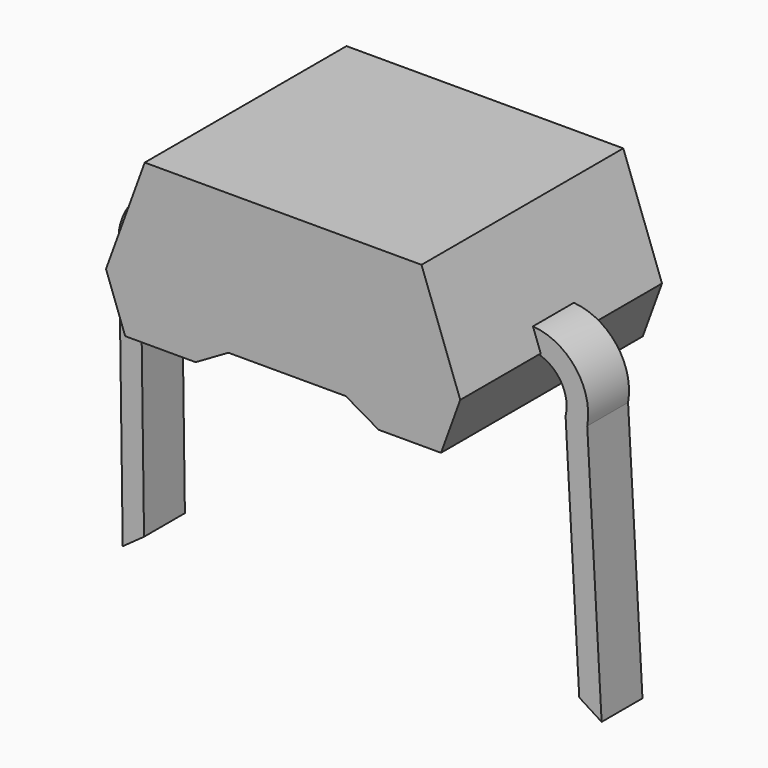
from build123d import *

# Parameters (mm, degrees)
F1_DEPTH  = 2.05
F3_DEPTH  = 0.415
F4_W      = 3.8403489144
F4_H      = 3.724045353
F5_DEPTH  = 1
F6_W      = 3.4870769596
F6_H      = 0.35
F7_DEPTH  = 1.57382
F8_W      = 3.4941060003
F8_H      = 0.35
F9_DEPTH  = 1.54205
F10_W     = 3.5302189644
F10_H     = 3.4740566043
F11_DEPTH = 0.37396
F12_W     = 3.8403489144
F12_H     = 0.2955522308
F13_DEPTH = 3.724045353


with BuildPart() as f1:
    # F0 (on Front) → F1 (new body, symmetric)
    with BuildSketch(Plane.XZ):
        Polygon((2.1852144086, 1.7290017953), (-2.3147855914, 1.7290017953), (-2.9440907799, 0), (-2.631453128, -0.8589648891), (-1.4877708299, -0.8589648891), (-0.9536180938, -0.5505716632), (0.9536180938, -0.5505716632), (1.4877708299, -0.8589648891), (2.5018819451, -0.8589648891), (2.8145195971, 0), align=None)
    extrude(amount=F1_DEPTH, both=True)

    # F4 (on face) → F5 (cut)
    with BuildSketch(Plane.XY.offset(1.7290017953)):
        with Locations((-0.0647855914, 0)):
            Rectangle(F4_W, F4_H)
    extrude(amount=-F5_DEPTH, mode=Mode.SUBTRACT)

    # F12 (on face) → F13 (join, through all)
    with BuildSketch(Plane.XZ.offset(-1.8620226765)):
        with Locations((-0.0647855914, 1.5812256799)):
            Rectangle(F12_W, F12_H)
    extrude(amount=F13_DEPTH)


with BuildPart() as f3:
    # F2 (on Front) → F3 (new body, symmetric)
    with BuildSketch(Plane.XZ):
        with BuildLine():
            ThreePointArc((2.5944073658, 0), (3.0970502608, -0.2283073486), (3.2190639405, -0.7667187037))
            Line((3.2190639405, -0.7667187037), (3.4415388399, -4.72))
            Line((3.4415388399, -4.72), (3.8050862517, -4.9508910426))
            Line((3.8050862517, -4.9508910426), (3.5710944592, -0.7929596136))
            ThreePointArc((3.5710944592, -0.7929596136), (3.3520943466, 0.0122444512), (2.5890505572, 0.35))
            Line((2.5890505572, 0.35), (2.5944073658, 0))
        make_face()
        Polygon((-3.0830035941, 0), (2.5944073658, 0), (2.5890505572, 0.35), (-3.0830035941, 0.35), align=None)
        with BuildLine():
            ThreePointArc((-3.6877330381, -0.7609760948), (-3.5690031613, -0.234557842), (-3.0830035941, 0))
            Line((-3.0830035941, 0), (-3.0830035941, 0.35))
            ThreePointArc((-3.0830035941, 0.35), (-3.7133207197, 0.1175353104), (-4.0417610478, -0.4685248073))
            Line((-4.0417610478, -0.4685248073), (-3.9802822739, -4.968643482))
            Line((-3.9802822739, -4.968643482), (-3.6336445253, -4.7201429922))
            Line((-3.6336445253, -4.7201429922), (-3.6877330381, -0.7609760948))
        make_face()
    extrude(amount=F3_DEPTH, both=True)


with BuildPart() as f7:
    # F6 (on face) → F7 (new body)
    with BuildSketch(Plane(origin=(0, 0.415, 0), x_dir=(-1, 0, 0), z_dir=(0, 1, 0))):
        with Locations((-0.0077152508, 0.175)):
            Rectangle(F6_W, F6_H)
    extrude(amount=F7_DEPTH)


with BuildPart() as f9:
    # F8 (on face) → F9 (new body)
    with BuildSketch(Plane.XZ.offset(0.415)):
        with Locations((0.018295832, 0.175)):
            Rectangle(F8_W, F8_H)
    extrude(amount=F9_DEPTH)


with BuildPart() as f11:
    # F10 (on face) → F11 (new body, symmetric)
    with BuildSketch(Plane.XY.offset(0.7290017953)):
        with Locations((-0.0594346784, -0.026947062)):
            Rectangle(F10_W, F10_H)
    extrude(amount=F11_DEPTH, both=True)


solid = Compound([f1.part, f3.part, f7.part, f9.part, f11.part])
